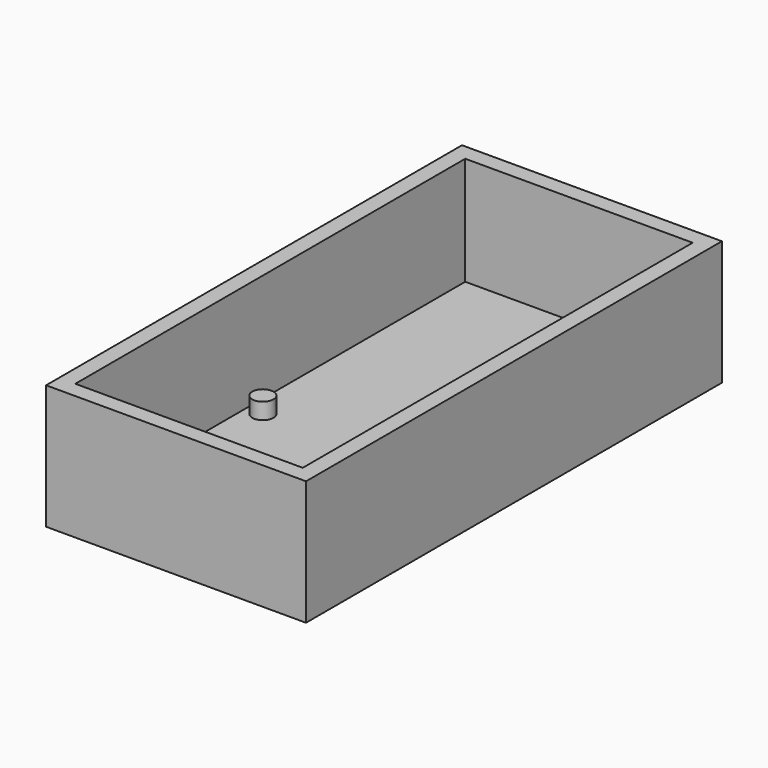
from build123d import *

# Parameters (mm, degrees)
F0_W     = 76.2
F0_H     = 152.4
F0_W_2   = 66.675
F0_H_2   = 142.875
F0_R     = 3.1
F1_DEPTH = 4.7625
F2_DEPTH = 31.75
F3_DEPTH = 25.4
F4_DEPTH = 4.7625


with BuildPart() as f1:
    # F0 (on Top) → F1 (new body)
    with BuildSketch(Plane.XY):
        with Locations((3.610619, 24.259033)):
            Rectangle(F0_W, F0_H)
        with Locations((3.610619, 24.259033)):
            Rectangle(F0_W_2, F0_H_2, mode=Mode.SUBTRACT)
        with Locations((3.610619, 24.259033)):
            Rectangle(F0_W_2, F0_H_2)
        with BuildLine():
            ThreePointArc((-28.464381, 36.084033), (-27.585701, 38.205353), (-25.464381, 39.084033))
            Line((-25.464381, 39.084033), (24.535619, 39.084033))
            ThreePointArc((24.535619, 39.084033), (26.65694, 38.205353), (27.535619, 36.084033))
            Line((27.535619, 36.084033), (27.535619, -42.915967))
            ThreePointArc((27.535619, -42.915967), (26.65694, -45.037288), (24.535619, -45.915967))
            Line((24.535619, -45.915967), (-25.464381, -45.915967))
            ThreePointArc((-25.464381, -45.915967), (-27.585701, -45.037288), (-28.464381, -42.915967))
            Line((-28.464381, -42.915967), (-28.464381, 36.084033))
        make_face(mode=Mode.SUBTRACT)
        with BuildLine():
            Line((24.535619, 39.084033), (-25.464381, 39.084033))
            ThreePointArc((-25.464381, 39.084033), (-27.585701, 38.205353), (-28.464381, 36.084033))
            Line((-28.464381, 36.084033), (-28.464381, -42.915967))
            ThreePointArc((-28.464381, -42.915967), (-27.585701, -45.037288), (-25.464381, -45.915967))
            Line((-25.464381, -45.915967), (24.535619, -45.915967))
            ThreePointArc((24.535619, -45.915967), (26.65694, -45.037288), (27.535619, -42.915967))
            Line((27.535619, -42.915967), (27.535619, 36.084033))
            ThreePointArc((27.535619, 36.084033), (26.65694, 38.205353), (24.535619, 39.084033))
        make_face()
        with Locations((-24.964381, -42.415967)):
            Circle(F0_R, mode=Mode.SUBTRACT)
        with Locations((-24.964381, 15.584033)):
            Circle(F0_R, mode=Mode.SUBTRACT)
        with Locations((24.035619, -42.415967)):
            Circle(F0_R, mode=Mode.SUBTRACT)
        with Locations((24.035619, 15.584033)):
            Circle(F0_R, mode=Mode.SUBTRACT)
        with Locations((24.035619, 15.584033)):
            Circle(F0_R)
        with Locations((24.035619, -42.415967)):
            Circle(F0_R)
        with Locations((-24.964381, -42.415967)):
            Circle(F0_R)
        with Locations((-24.964381, 15.584033)):
            Circle(F0_R)
    extrude(amount=-F1_DEPTH)

    # F0 (on Top) → F2 (join)
    with BuildSketch(Plane.XY):
        with Locations((3.610619, 24.259033)):
            Rectangle(F0_W, F0_H)
        with Locations((3.610619, 24.259033)):
            Rectangle(F0_W_2, F0_H_2, mode=Mode.SUBTRACT)
    extrude(amount=F2_DEPTH)

    # F0 (on Top) → F3 (join)
    with BuildSketch(Plane.XY):
        with Locations((3.610619, 24.259033)):
            Rectangle(F0_W, F0_H)
        with Locations((3.610619, 24.259033)):
            Rectangle(F0_W_2, F0_H_2, mode=Mode.SUBTRACT)
    extrude(amount=F3_DEPTH)

    # F0 (on Top) → F4 (join)
    with BuildSketch(Plane.XY):
        with Locations((24.035619, 15.584033)):
            Circle(F0_R)
        with Locations((24.035619, -42.415967)):
            Circle(F0_R)
        with Locations((-24.964381, -42.415967)):
            Circle(F0_R)
        with Locations((-24.964381, 15.584033)):
            Circle(F0_R)
    extrude(amount=F4_DEPTH)


solid = f1.part
